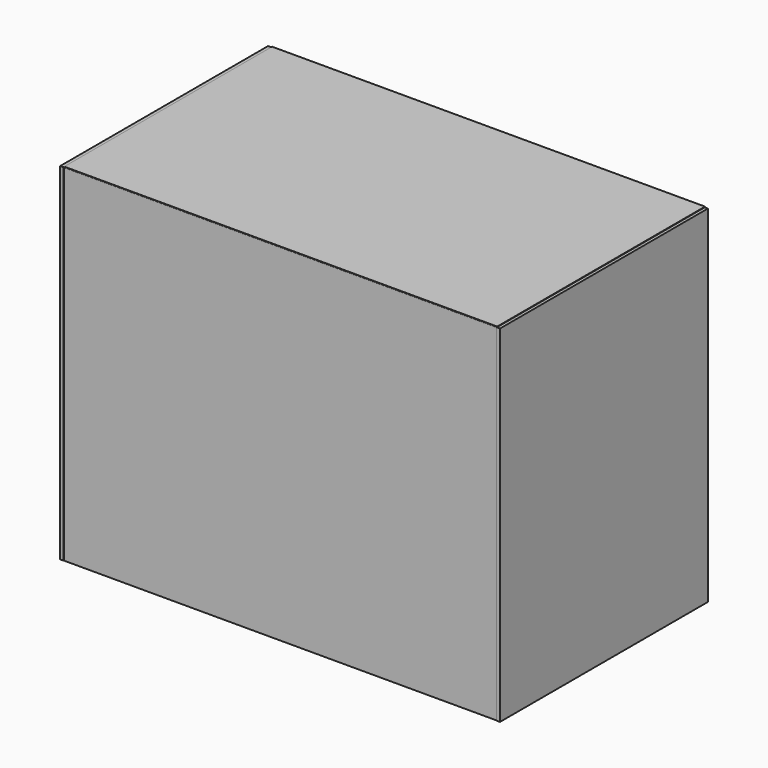
from build123d import *

# Parameters (mm, degrees)
F0_W      = 250
F0_H      = 150
F0_R      = 1.5
F1_DEPTH  = 2
F2_W      = 250
F2_H      = 200
F2_W_2    = 240
F2_H_2    = 15
F3_DEPTH  = 2
F5_DEPTH  = 2
F8_W      = 150
F8_H      = 200
F9_DEPTH  = 2
F11_DEPTH = 2
F13_DEPTH = 2


with BuildPart() as f1:
    # F0 (on Top) → F1 (new body)
    with BuildSketch(Plane.XY):
        with Locations((-1.8298864365, 2.1048232913)):
            Rectangle(F0_W, F0_H)
        with Locations((-116.8298864365, -62.8951767087)):
            Circle(F0_R, mode=Mode.SUBTRACT)
        with Locations((113.1701135635, -62.8951767087)):
            Circle(F0_R, mode=Mode.SUBTRACT)
        with Locations((-116.8298864365, 67.1048232913)):
            Circle(F0_R, mode=Mode.SUBTRACT)
        with Locations((113.1701135635, 67.1048232913)):
            Circle(F0_R, mode=Mode.SUBTRACT)
    extrude(amount=F1_DEPTH)


with BuildPart() as f3:
    # F2 (on Front) → F3 (new body)
    with BuildSketch(Plane.XZ):
        with Locations((-1.8474161625, 100)):
            Rectangle(F2_W, F2_H)
        with Locations((-1.8474161625, 107.5)):
            Rectangle(F2_W_2, F2_H_2, mode=Mode.SUBTRACT)
    extrude(amount=F3_DEPTH)


with BuildPart() as f3_1:
    # F4: moved
    add(f3.part.moved(Location((0, 76.8, 0))))


with BuildPart() as f5:
    # F2 (on Front) → F5 (new body)
    with BuildSketch(Plane.XZ):
        with Locations((-1.8474161625, 100)):
            Rectangle(F2_W, F2_H)
        with Locations((-1.8474161625, 107.5)):
            Rectangle(F2_W_2, F2_H_2, mode=Mode.SUBTRACT)
        with Locations((-1.8474161625, 107.5)):
            Rectangle(F2_W_2, F2_H_2)
    extrude(amount=F5_DEPTH)


with BuildPart() as f5_1:
    # F7: moved
    add(f5.part.moved(Location((0, -71, 0))))


with BuildPart() as f9:
    # F8 (on Right) → F9 (new body)
    with BuildSketch(Plane.YZ):
        with Locations((1.8395155668, 100)):
            Rectangle(F8_W, F8_H)
    extrude(amount=F9_DEPTH)


with BuildPart() as f9_1:
    # F10: moved
    add(f9.part.moved(Location((123, 0, 0))))


with BuildPart() as f11:
    # F8 (on Right) → F11 (new body)
    with BuildSketch(Plane.YZ):
        with Locations((1.8395155668, 100)):
            Rectangle(F8_W, F8_H)
    extrude(amount=F11_DEPTH)


with BuildPart() as f11_1:
    # F12: moved
    add(f11.part.moved(Location((-129, 0, 0))))


with BuildPart() as f13:
    # F0 (on Top) → F13 (new body)
    with BuildSketch(Plane.XY):
        with Locations((-1.8298864365, 2.1048232913)):
            Rectangle(F0_W, F0_H)
        with Locations((-116.8298864365, -62.8951767087)):
            Circle(F0_R, mode=Mode.SUBTRACT)
        with Locations((113.1701135635, -62.8951767087)):
            Circle(F0_R, mode=Mode.SUBTRACT)
        with Locations((-116.8298864365, 67.1048232913)):
            Circle(F0_R, mode=Mode.SUBTRACT)
        with Locations((113.1701135635, 67.1048232913)):
            Circle(F0_R, mode=Mode.SUBTRACT)
        with Locations((-116.8298864365, 67.1048232913)):
            Circle(F0_R)
        with Locations((-116.8298864365, -62.8951767087)):
            Circle(F0_R)
        with Locations((113.1701135635, 67.1048232913)):
            Circle(F0_R)
        with Locations((113.1701135635, -62.8951767087)):
            Circle(F0_R)
    extrude(amount=F13_DEPTH)


with BuildPart() as f13_1:
    # F14: moved
    add(f13.part.moved(Location((0, 0, 198.3))))


solid = Compound([f1.part, f3_1.part, f5_1.part, f9_1.part, f11_1.part, f13_1.part])
